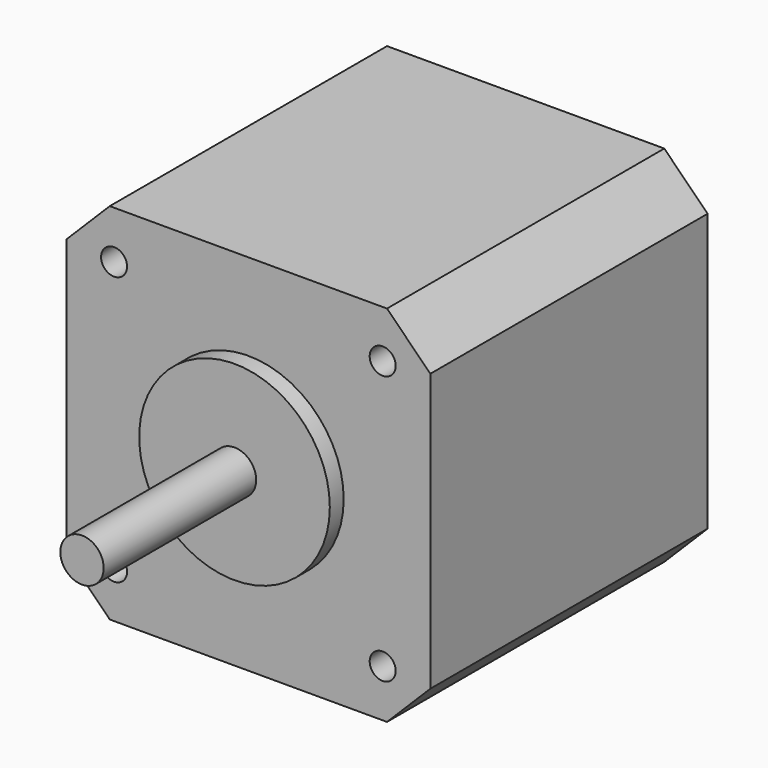
from build123d import *

# Parameters (mm, degrees)
F0_W     = 42
F0_H     = 42
F0_R     = 1.5
F0_R_2   = 11
F0_R_3   = 2.5
F1_DEPTH = 40
F2_DEPTH = 2
F3_DEPTH = 24
F4_SIZE  = 5


with BuildPart() as f1:
    # F0 (on Front) → F1 (new body)
    with BuildSketch(Plane.XZ):
        Rectangle(F0_W, F0_H)
        with Locations((-15.5, -15.5)):
            Circle(F0_R, mode=Mode.SUBTRACT)
        with Locations((15.5, -15.5)):
            Circle(F0_R, mode=Mode.SUBTRACT)
        with Locations((-15.5, 15.5)):
            Circle(F0_R, mode=Mode.SUBTRACT)
        Circle(F0_R_2, mode=Mode.SUBTRACT)
        with Locations((15.5, 15.5)):
            Circle(F0_R, mode=Mode.SUBTRACT)
        Circle(F0_R_2)
        Circle(F0_R_3, mode=Mode.SUBTRACT)
        Circle(F0_R_3)
    extrude(amount=-F1_DEPTH)

    # F0 (on Front) → F2 (join)
    with BuildSketch(Plane.XZ):
        Circle(F0_R_2)
        Circle(F0_R_3, mode=Mode.SUBTRACT)
    extrude(amount=F2_DEPTH)

    # F0 (on Front) → F3 (join)
    with BuildSketch(Plane.XZ):
        Circle(F0_R_3)
    extrude(amount=F3_DEPTH)

    # F4
    f4_edges = [f1.edges().sort_by_distance(p)[0] for p in [
        (-21, 20, -21),
        (-21, 20, 21),
        (21, 20, 21),
        (21, 20, -21),
    ]]
    chamfer(f4_edges, length=F4_SIZE)


solid = f1.part
